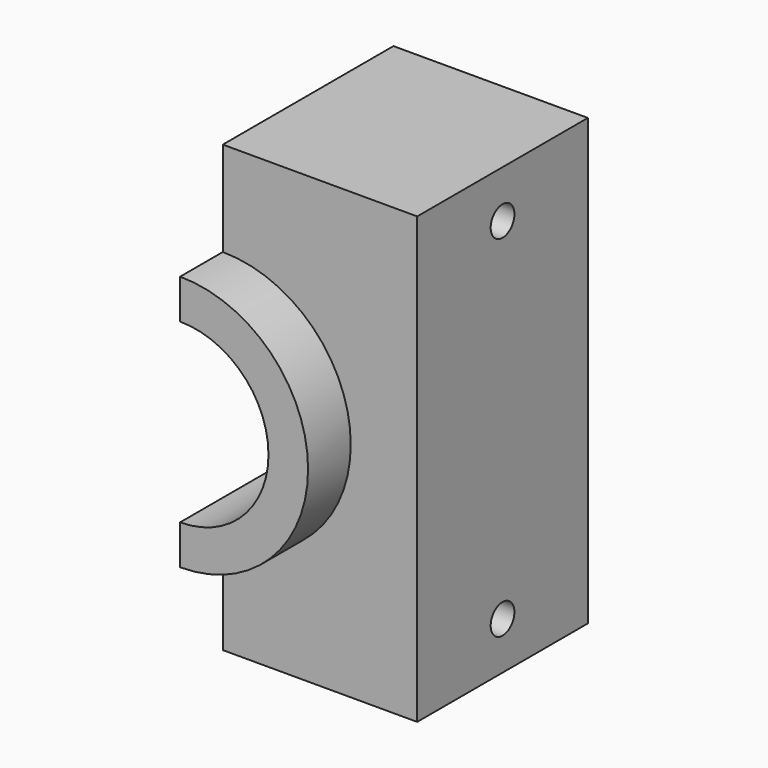
from build123d import *

# Parameters (mm, degrees)
F1_DEPTH      = 25.4
F1_DEPTH_BACK = 25.4
F2_DEPTH      = 38.1
F2_DEPTH_BACK = 38.1
F3_R          = 3.534221
F4_DEPTH      = 46.301903


with BuildPart() as f1:
    # F0 (on Front) → F1 (new body, two sides)
    with BuildSketch(Plane.XZ) as f1_sk:
        with BuildLine():
            ThreePointArc((0, 21.039158), (21.039158, 0), (0, -21.039158))
            Line((0, -21.039158), (0, -30.469209))
            ThreePointArc((0, -30.469209), (30.469209, 0), (0, 30.469209))
            Line((0, 30.469209), (0, 21.039158))
        make_face()
        with BuildLine():
            ThreePointArc((0, 30.469209), (30.469209, 0), (0, -30.469209))
            Line((0, -30.469209), (0, -52.990768))
            Line((0, -52.990768), (46.300903, -52.990768))
            Line((46.300903, -52.990768), (46.300903, 0))
            Line((46.300903, 0), (46.300903, 52.990768))
            Line((46.300903, 52.990768), (0, 52.990768))
            Line((0, 52.990768), (0, 30.469209))
        make_face()
    extrude(amount=F1_DEPTH)
    extrude(f1_sk.sketch, amount=-F1_DEPTH_BACK)

    # F0 (on Front) → F2 (join, two sides)
    with BuildSketch(Plane.XZ) as f2_sk:
        with BuildLine():
            ThreePointArc((0, 21.039158), (21.039158, 0), (0, -21.039158))
            Line((0, -21.039158), (0, -30.469209))
            ThreePointArc((0, -30.469209), (30.469209, 0), (0, 30.469209))
            Line((0, 30.469209), (0, 21.039158))
        make_face()
    extrude(amount=F2_DEPTH)
    extrude(f2_sk.sketch, amount=-F2_DEPTH_BACK)

    # F3 (on Right) → F4 (cut, through all)
    with BuildSketch(Plane.YZ):
        with Locations((0, -41.703153)):
            Circle(F3_R)
        with Locations((0, 41.703153)):
            Circle(F3_R)
    extrude(amount=F4_DEPTH, mode=Mode.SUBTRACT)


solid = f1.part
